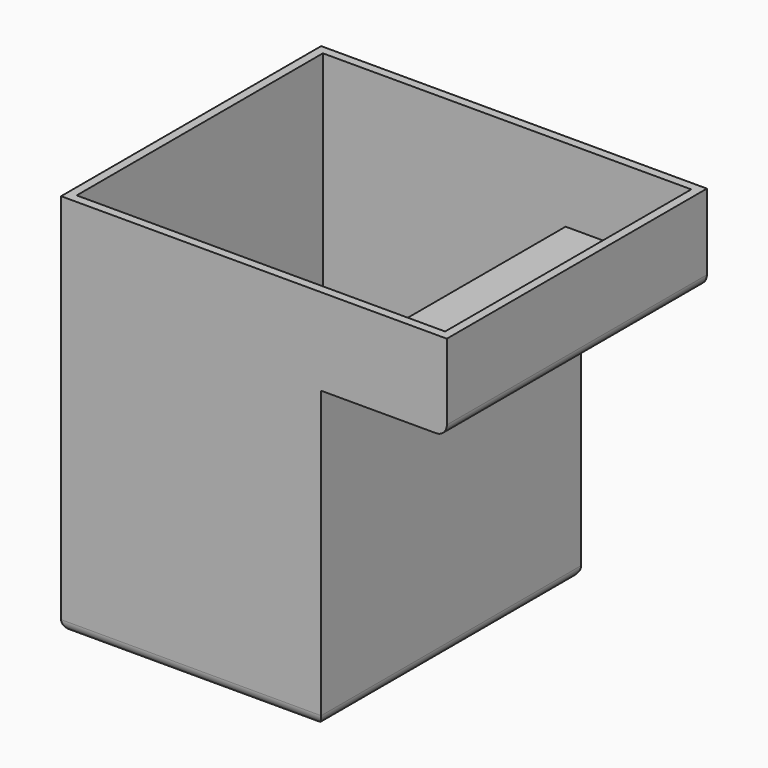
from build123d import *

# Parameters (mm, degrees)
F0_W     = 30.48
F0_H     = 38.1
F1_DEPTH = 1.524
F2_W     = 30.48
F2_H     = 38.1
F2_W_2   = 28.448
F2_H_2   = 36.068
F3_DEPTH = 33.274
F4_R     = 1.27
F5_W     = 45.212
F5_H     = 38.1
F5_W_2   = 28.448
F5_H_2   = 36.068
F6_DEPTH = 1.524
F7_W     = 45.212
F7_H     = 38.1
F7_W_2   = 43.18
F7_H_2   = 36.068
F8_DEPTH = 8.636
F9_R     = 1.27


with BuildPart() as f1:
    # F0 (on Top) → F1 (new body)
    with BuildSketch(Plane.XY):
        Rectangle(F0_W, F0_H)
    extrude(amount=F1_DEPTH)

    # F2 (on face) → F3 (join)
    with BuildSketch(Plane.XY.offset(1.524)):
        Rectangle(F2_W, F2_H)
        Rectangle(F2_W_2, F2_H_2, mode=Mode.SUBTRACT)
    extrude(amount=F3_DEPTH)

    # F4
    f4_edges = [f1.edges().sort_by_distance(p)[0] for p in [
        (0, 19.05, 0),
        (-15.24, 0, 0),
        (0, -19.05, 0),
        (15.24, 0, 0),
    ]]
    fillet(f4_edges, radius=F4_R)

    # F5 (on face) → F6 (join)
    with BuildSketch(Plane.XY.offset(34.798)):
        with Locations((7.366, 0)):
            Rectangle(F5_W, F5_H)
        Rectangle(F5_W_2, F5_H_2, mode=Mode.SUBTRACT)
    extrude(amount=F6_DEPTH)

    # F7 (on face) → F8 (join)
    with BuildSketch(Plane.XY.offset(36.322)):
        with Locations((7.366, 0)):
            Rectangle(F7_W, F7_H)
        with Locations((7.366, 0)):
            Rectangle(F7_W_2, F7_H_2, mode=Mode.SUBTRACT)
    extrude(amount=F8_DEPTH)

    # F9
    f9_edges = [f1.edges().sort_by_distance(p)[0] for p in [
        (29.972, 0, 34.798),
    ]]
    fillet(f9_edges, radius=F9_R)


solid = f1.part
